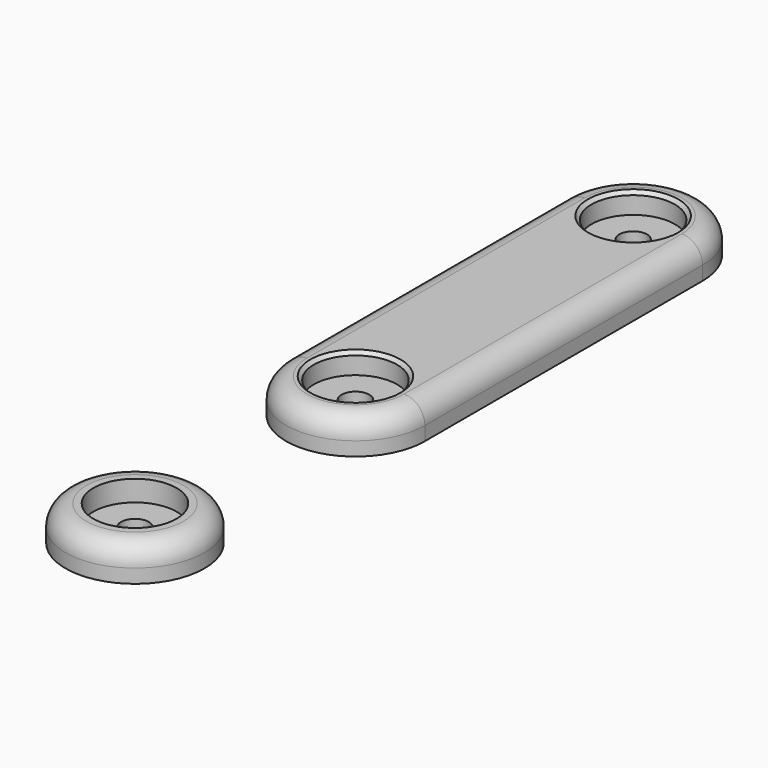
from build123d import *

# Parameters (mm, degrees)
SKETCH_R        = 2
PAD_DEPTH       = 5
SKETCH001_R     = 6
POCKET_DEPTH    = 3
FILLET_R        = 3
CHAMFER_SIZE    = 0.5
SKETCH002_R     = 10
SKETCH002_R_2   = 2
PAD001_DEPTH    = 5
SKETCH003_R     = 6
POCKET001_DEPTH = 3
FILLET001_R     = 3


with BuildPart() as long_shim:
    # Sketch → Pad (new body)
    with BuildSketch(Plane.XY):
        with BuildLine():
            ThreePointArc((-10, 0), (0, -10), (10, 0))
            Line((10, 0), (10, 50))
            ThreePointArc((10, 50), (0, 60), (-10, 50))
            Line((-10, 0), (-10, 50))
        make_face()
        Circle(SKETCH_R, mode=Mode.SUBTRACT)
        with Locations((0, 50)):
            Circle(SKETCH_R, mode=Mode.SUBTRACT)
    extrude(amount=PAD_DEPTH)

    # Sketch001 (on Face8 of Pad) → Pocket (cut)
    with BuildSketch(Plane.XY.offset(5)):
        with Locations((0, 50)):
            Circle(SKETCH001_R)
        Circle(SKETCH001_R)
    extrude(amount=-POCKET_DEPTH, mode=Mode.SUBTRACT)

    # Fillet
    fillet_edges = [long_shim.edges().sort_by_distance(p)[0] for p in [
        (-10, 25, 5),
    ]]
    fillet(fillet_edges, radius=FILLET_R)

    # Chamfer
    chamfer_edges = [long_shim.edges().sort_by_distance(p)[0] for p in [
        (-6, 50, 5),
        (-6, 0, 5),
    ]]
    chamfer(chamfer_edges, length=CHAMFER_SIZE)


with BuildPart() as short_shim:
    # Sketch002 → Pad001 (new body)
    with BuildSketch(Plane.XY):
        Circle(SKETCH002_R)
        Circle(SKETCH002_R_2, mode=Mode.SUBTRACT)
    extrude(amount=PAD001_DEPTH)

    # Sketch003 (on Face4 of Pad001) → Pocket001 (cut)
    with BuildSketch(Plane.XY.offset(5)):
        Circle(SKETCH003_R)
    extrude(amount=-POCKET001_DEPTH, mode=Mode.SUBTRACT)

    # Fillet001
    fillet001_edges = [short_shim.edges().sort_by_distance(p)[0] for p in [
        (-10, 0, 5),
    ]]
    fillet(fillet001_edges, radius=FILLET001_R)


with BuildPart() as short_shim_1:
    # Body001 placement: moved
    add(short_shim.part.moved(Location((0, -39.7, 0))))


solid = Compound([long_shim.part, short_shim_1.part])
